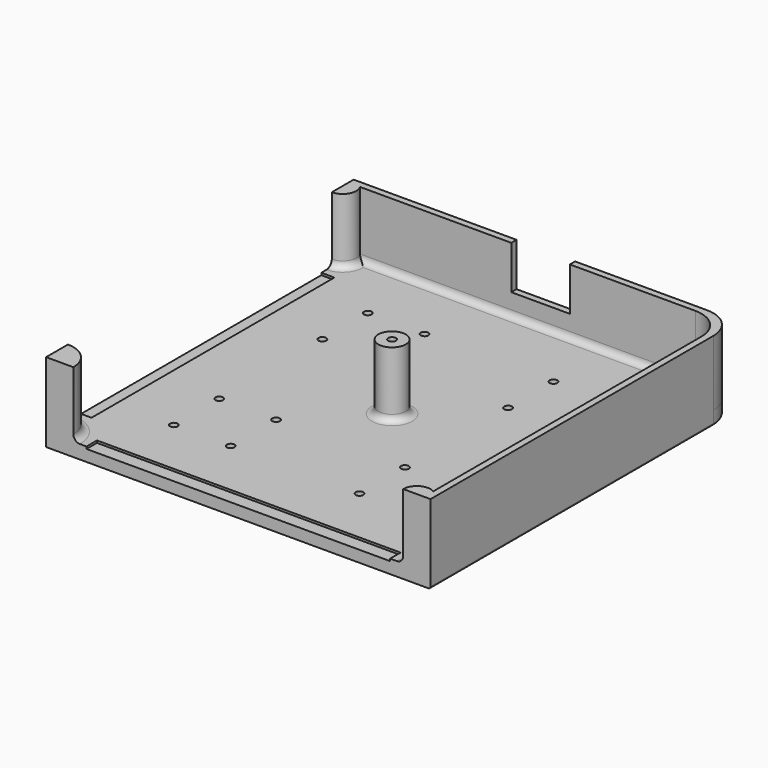
from build123d import *

# Parameters (mm, degrees)
PAD010_DEPTH         = 6.25
SKETCH022_R          = 6.25
PAD011_DEPTH         = 30
SKETCH023_R          = 1.75
POCKET010_DEPTH      = 100
POCKET010_DEPTH_BACK = 100
SKETCH024_R          = 3
POCKET011_DEPTH      = 3.25
FILLET008_R          = 3
FILLET009_R          = 1
SKETCH025_W          = 6
SKETCH025_H          = 139
SKETCH025_W_2        = 139
SKETCH025_H_2        = 6
POCKET012_DEPTH      = 1
SKETCH026_R          = 3
POCKET013_DEPTH      = 100
POCKET013_DEPTH_BACK = 24
SKETCH027_R          = 1.75
POCKET014_DEPTH      = 100
POCKET014_DEPTH_BACK = 100
SKETCH069_W          = 26.8
SKETCH069_H          = 26.8
POCKET032_DEPTH      = 19.9


with BuildPart() as part:
    # Sketch021 → Pad010 (new body)
    with BuildSketch(Plane.XY):
        with BuildLine():
            Line((73.833333, 88), (-88, 88))
            Line((-88, 88), (-88, -88))
            Line((-88, -88), (88, -88))
            Line((88, -88), (88, 73.833333))
            ThreePointArc((88, 73.833333), (83.850679, 83.850679), (73.833333, 88))
        make_face()
    extrude(amount=-PAD010_DEPTH)

    # Sketch022 → Pad011 (join)
    with BuildSketch(Plane.XY):
        Circle(SKETCH022_R)
        with BuildLine():
            ThreePointArc((88, 73.8333), (83.850691, 83.850668), (73.833333, 88))
            Line((73.833333, 88), (-88, 88))
            Line((-88, 88), (-88, 75.5))
            ThreePointArc((-88, 75.5), (-82.551376, 78.688138), (-82.661461, 85))
            Line((-82.661461, 85), (70.83333, 85))
            ThreePointArc((85, 70.833333), (80.850678, 80.850681), (70.83333, 85))
            Line((85, -82.661461), (85, 70.833333))
            ThreePointArc((85, -82.661461), (78.688138, -82.551376), (75.5, -88))
            Line((75.5, -88), (88, -88))
            Line((88, -88), (88, 73.8333))
        make_face()
        with BuildLine():
            ThreePointArc((-75.5, -88), (-79.161165, -79.161165), (-88, -75.5))
            Line((-88, -88), (-88, -75.5))
            Line((-88, -88), (-75.5, -88))
        make_face()
    extrude(amount=PAD011_DEPTH)

    # Sketch023 → Pocket010 (cut, two sides)
    with BuildSketch(Plane.XY) as pocket010_sk:
        with Locations((-55.5, 55.5)):
            Circle(SKETCH023_R)
        with Locations((-29.5, 55.5)):
            Circle(SKETCH023_R)
        with Locations((-29.5, 29.5)):
            Circle(SKETCH023_R)
        with Locations((-55.5, 29.5)):
            Circle(SKETCH023_R)
        with Locations((29.5, 55.5)):
            Circle(SKETCH023_R)
        with Locations((55.5, 55.5)):
            Circle(SKETCH023_R)
        with Locations((55.5, 29.5)):
            Circle(SKETCH023_R)
        with Locations((29.5, 29.5)):
            Circle(SKETCH023_R)
        with Locations((29.5, -29.5)):
            Circle(SKETCH023_R)
        with Locations((55.5, -29.5)):
            Circle(SKETCH023_R)
        with Locations((55.5, -55.5)):
            Circle(SKETCH023_R)
        with Locations((29.5, -55.5)):
            Circle(SKETCH023_R)
        with Locations((-55.5, -29.5)):
            Circle(SKETCH023_R)
        with Locations((-29.5, -29.5)):
            Circle(SKETCH023_R)
        with Locations((-29.5, -55.5)):
            Circle(SKETCH023_R)
        with Locations((-55.5, -55.5)):
            Circle(SKETCH023_R)
    extrude(amount=-POCKET010_DEPTH, mode=Mode.SUBTRACT)
    extrude(pocket010_sk.sketch, amount=POCKET010_DEPTH_BACK, mode=Mode.SUBTRACT)

    # Sketch024 → Pocket011 (cut)
    with BuildSketch(Plane.XY.offset(-6.25)):
        with Locations((-55.5, 55.5)):
            Circle(SKETCH024_R)
        with Locations((-29.5, 55.5)):
            Circle(SKETCH024_R)
        with Locations((-29.5, 29.5)):
            Circle(SKETCH024_R)
        with Locations((-55.5, 29.5)):
            Circle(SKETCH024_R)
        with Locations((29.5, 55.5)):
            Circle(SKETCH024_R)
        with Locations((55.5, 55.5)):
            Circle(SKETCH024_R)
        with Locations((55.5, 29.5)):
            Circle(SKETCH024_R)
        with Locations((29.5, 29.5)):
            Circle(SKETCH024_R)
        with Locations((29.5, -29.5)):
            Circle(SKETCH024_R)
        with Locations((55.5, -29.5)):
            Circle(SKETCH024_R)
        with Locations((55.5, -55.5)):
            Circle(SKETCH024_R)
        with Locations((29.5, -55.5)):
            Circle(SKETCH024_R)
        with Locations((-55.5, -29.5)):
            Circle(SKETCH024_R)
        with Locations((-29.5, -29.5)):
            Circle(SKETCH024_R)
        with Locations((-29.5, -55.5)):
            Circle(SKETCH024_R)
        with Locations((-55.5, -55.5)):
            Circle(SKETCH024_R)
    extrude(amount=POCKET011_DEPTH, mode=Mode.SUBTRACT)

    # Fillet008
    fillet008_edges = [part.edges().sort_by_distance(p)[0] for p in [
        (-6.25, 0, 0),
        (-82.551376, 78.688138, 0),
        (78.688138, -82.551376, 0),
        (-79.161165, -79.161165, 0),
        (-5.914065, 85, 0),
    ]]
    fillet(fillet008_edges, radius=FILLET008_R)

    # Fillet009
    fillet009_edges = [part.edges().sort_by_distance(p)[0] for p in [
        (-7.083333, 88, -6.25),
    ]]
    fillet(fillet009_edges, radius=FILLET009_R)

    # Sketch025 → Pocket012 (cut)
    with BuildSketch(Plane.XY):
        with Locations((-85, 0)):
            Rectangle(SKETCH025_W, SKETCH025_H)
        with Locations((0, -85)):
            Rectangle(SKETCH025_W_2, SKETCH025_H_2)
    extrude(amount=-POCKET012_DEPTH, mode=Mode.SUBTRACT)

    # Sketch026 → Pocket013 (cut, two sides)
    with BuildSketch(Plane.XY) as pocket013_sk:
        Circle(SKETCH026_R)
    extrude(amount=-POCKET013_DEPTH, mode=Mode.SUBTRACT)
    extrude(pocket013_sk.sketch, amount=POCKET013_DEPTH_BACK, mode=Mode.SUBTRACT)

    # Sketch027 → Pocket014 (cut, two sides)
    with BuildSketch(Plane.XY) as pocket014_sk:
        Circle(SKETCH027_R)
    extrude(amount=-POCKET014_DEPTH, mode=Mode.SUBTRACT)
    extrude(pocket014_sk.sketch, amount=POCKET014_DEPTH_BACK, mode=Mode.SUBTRACT)

    # Sketch069 → Pocket032 (cut)
    with BuildSketch(Plane.XY.offset(30)):
        with Locations((0, 88)):
            Rectangle(SKETCH069_W, SKETCH069_H)
    extrude(amount=-POCKET032_DEPTH, mode=Mode.SUBTRACT)


with BuildPart() as part_1:
    # Body004 placement: moved
    add(part.part.moved(Location((88, 88, -30))))


solid = part_1.part
